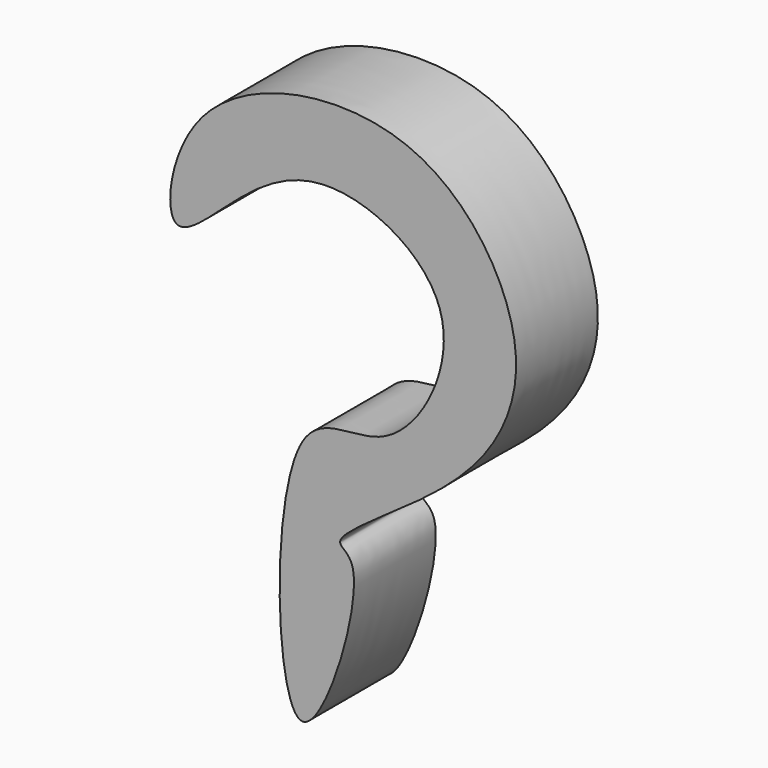
from build123d import *

# Parameters (mm, degrees)
F1_DEPTH = 6.35


with BuildPart() as f1:
    # F0 (on Front) → F1 (new body)
    with BuildSketch(Plane.XZ):
        with BuildLine():
            add(Edge.make_bspline(
                [(11.0309477895, 55.8652691543), (11.6087325958, 55.4432161879), (14.5668179439, 58.3247283676), (20.0298759584, 62.6366802069), (30.2369686975, 57.2484314189), (24.680345861, 46.396588164), (16.6563458983, 50.0604848769), (17.4037548014, 21.9009456821), (23.3958160659, 41.2305408815), (19.8542356935, 41.6004615047), (27.575742511, 46.1837321572), (31.9020350298, 51.1716065566), (32.7268885207, 57.7645153982), (26.1461287223, 67.2630872381), (11.2343911723, 64.651333804), (10.2670047694, 56.4233046277), (11.0309477895, 55.8652691543)],
                knots=[0, 0, 0, 0, 0.0505464173, 0.120149837, 0.1966926537, 0.2737615736, 0.3351792823, 0.4379514002, 0.5207242796, 0.5519727975, 0.6214125148, 0.692078874, 0.7558861493, 0.8389804581, 0.9331678814, 1, 1, 1, 1], degree=3))
        make_face()
    extrude(amount=F1_DEPTH)


solid = f1.part
